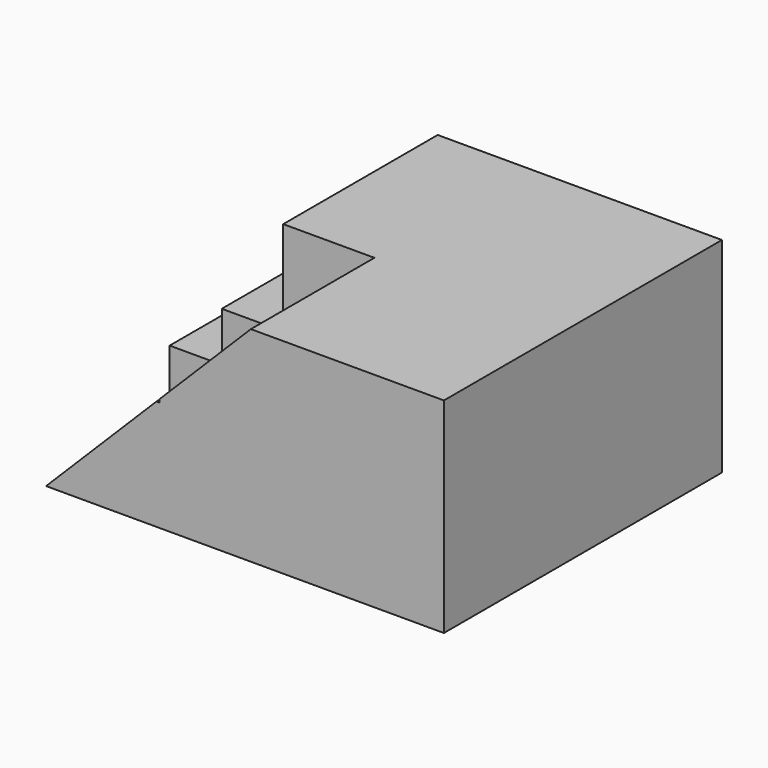
from build123d import *

# Parameters (mm, degrees)
F1_DEPTH = 20.32
F2_DEPTH = 25.4
F3_DEPTH = 25.4


with BuildPart() as f1:
    # F0 (on Front) → F1 (new body)
    with BuildSketch(Plane.XZ):
        Polygon((14.508714, 14.508714), (0, 0), (26.940768, 0), (26.940768, 26.940768), (14.94181, 14.94181), (14.94181, 14.508714), align=None)
    extrude(amount=F1_DEPTH)

    # F0 (on Front) → F2 (join)
    with BuildSketch(Plane.XZ):
        Polygon((14.508714, 14.508714), (0, 0), (26.940768, 0), (26.940768, 26.940768), (14.94181, 14.94181), (14.94181, 14.508714), align=None)
        Polygon((0, 8.012275), (0, 0), (14.508714, 14.508714), (6.857352, 14.508714), (6.857352, 8.012275), align=None)
        Polygon((14.94181, 14.94181), (14.508714, 14.508714), (14.94181, 14.508714), align=None)
        Polygon((14.94181, 14.94181), (26.940768, 26.940768), (14.94181, 26.940768), align=None)
    extrude(amount=-F2_DEPTH)

    # F2_face (on face) → F3 (join)
    with BuildSketch(Plane(origin=(26.940768, 2.54, 13.470384), x_dir=(0, 1, 0), z_dir=(1, 0, 0))):
        Polygon((-22.86, -13.470384), (22.86, -13.470384), (22.86, 13.470384), (-2.54, 13.470384), (-22.86, 13.470384), align=None)
    extrude(amount=F3_DEPTH)


solid = f1.part
